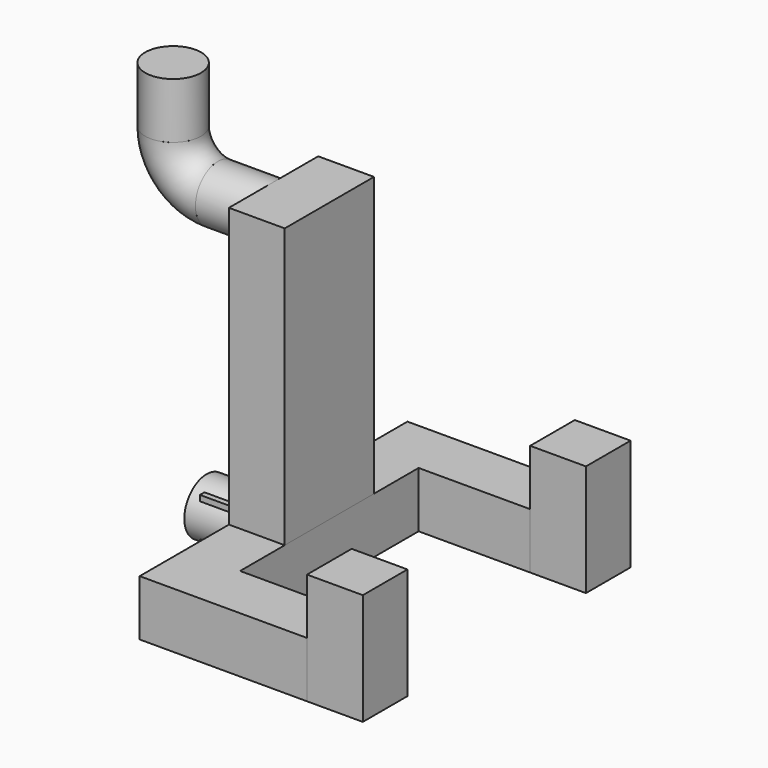
from build123d import *

# Parameters (mm, degrees)
CYLINDER002_R           = 2.5
CYLINDER002_DEPTH       = 6
CYLINDER002_PITCH_ANGLE = -90
BOX001_W                = 5
BOX001_H                = 10
BOX001_DEPTH            = 30
CYLINDER003_R           = 2.5
CYLINDER003_DEPTH       = 5
CYLINDER003_PITCH_ANGLE = -90
TORUS_R                 = 2.5
TORUS_ANGLE             = 90
CYLINDER004_R           = 2.5
CYLINDER004_DEPTH       = 5
BOX002_W                = 5
BOX002_H                = 4
BOX002_DEPTH            = 4
BOX003_W                = 15
BOX003_H                = 20
BOX003_DEPTH            = 10
BOX_W                   = 20
BOX_H                   = 30
BOX_DEPTH               = 5
BOX004_W                = 5
BOX004_H                = 5
BOX004_DEPTH            = 10
BOX005_W                = 5
BOX005_H                = 5
BOX005_DEPTH            = 10


with BuildPart() as cylinder002:
    # Cylinder002 → Cylinder002 (new body)
    with BuildSketch(Plane.XY):
        Circle(CYLINDER002_R)
    extrude(amount=CYLINDER002_DEPTH)


with BuildPart() as cylinder002_1:
    # Cylinder002 pitch: moved
    add(cylinder002.part.rotate(Axis((0, 0, 0), (0, 1, 0)), CYLINDER002_PITCH_ANGLE))


with BuildPart() as cylinder002_2:
    # Cylinder002 placement: moved
    add(cylinder002_1.part.moved(Location((-5, 0, 2.5))))


with BuildPart() as cube001:
    # Box001 → Box001 (new body)
    with BuildSketch(Plane(origin=(-5, -5, 0), x_dir=(1, 0, 0), z_dir=(0, 0, 1))):
        with Locations((2.5, 5)):
            Rectangle(BOX001_W, BOX001_H)
    extrude(amount=BOX001_DEPTH)


with BuildPart() as cylinder003:
    # Cylinder003 → Cylinder003 (new body)
    with BuildSketch(Plane.XY):
        Circle(CYLINDER003_R)
    extrude(amount=CYLINDER003_DEPTH)


with BuildPart() as cylinder003_1:
    # Cylinder003 pitch: moved
    add(cylinder003.part.rotate(Axis((0, 0, 0), (0, 1, 0)), CYLINDER003_PITCH_ANGLE))


with BuildPart() as cylinder003_2:
    # Cylinder003 placement: moved
    add(cylinder003_1.part.moved(Location((-5, 0, 27.5))))


with BuildPart() as torus:
    # Torus → Torus (revolve)
    with BuildSketch(Plane(origin=(-10, 0, 31.5), x_dir=(0, 0, -1), z_dir=(1, 0, 0))):
        with Locations((4, 0)):
            Circle(TORUS_R)
    revolve(axis=Axis((-10, 0, 31.5), (0, 1, 0)), revolution_arc=TORUS_ANGLE)


with BuildPart() as cylinder004:
    # Cylinder004 → Cylinder004 (new body)
    with BuildSketch(Plane(origin=(-14, 0, 31.5), x_dir=(1, 0, 0), z_dir=(0, 0, 1))):
        Circle(CYLINDER004_R)
    extrude(amount=CYLINDER004_DEPTH)


with BuildPart() as cube002:
    # Box002 → Box002 (new body)
    with BuildSketch(Plane(origin=(-10, -2, 0.5), x_dir=(1, 0, 0), z_dir=(0, 0, 1))):
        with Locations((2.5, 2)):
            Rectangle(BOX002_W, BOX002_H)
    extrude(amount=BOX002_DEPTH)


with BuildPart() as cube003:
    # Box003 → Box003 (new body)
    with BuildSketch(Plane(origin=(0, -10, 0), x_dir=(1, 0, 0), z_dir=(0, 0, 1))):
        with Locations((7.5, 10)):
            Rectangle(BOX003_W, BOX003_H)
    extrude(amount=BOX003_DEPTH)


with BuildPart() as cut:
    # Box → Box (new body)
    with BuildSketch(Plane(origin=(-5, -15, 0), x_dir=(1, 0, 0), z_dir=(0, 0, 1))):
        with Locations((10, 15)):
            Rectangle(BOX_W, BOX_H)
    extrude(amount=BOX_DEPTH)

    # Cut: cut Cube003
    add(cube003.part, mode=Mode.SUBTRACT)


with BuildPart() as cube004:
    # Box004 → Box004 (new body)
    with BuildSketch(Plane(origin=(10, 10, 0), x_dir=(1, 0, 0), z_dir=(0, 0, 1))):
        with Locations((2.5, 2.5)):
            Rectangle(BOX004_W, BOX004_H)
    extrude(amount=BOX004_DEPTH)


with BuildPart() as cube005:
    # Box005 → Box005 (new body)
    with BuildSketch(Plane(origin=(10, -15, 0), x_dir=(1, 0, 0), z_dir=(0, 0, 1))):
        with Locations((2.5, 2.5)):
            Rectangle(BOX005_W, BOX005_H)
    extrude(amount=BOX005_DEPTH)


solid = Compound([cylinder002_2.part, cube001.part, cylinder003_2.part, torus.part, cylinder004.part, cube002.part, cut.part, cube004.part, cube005.part])
